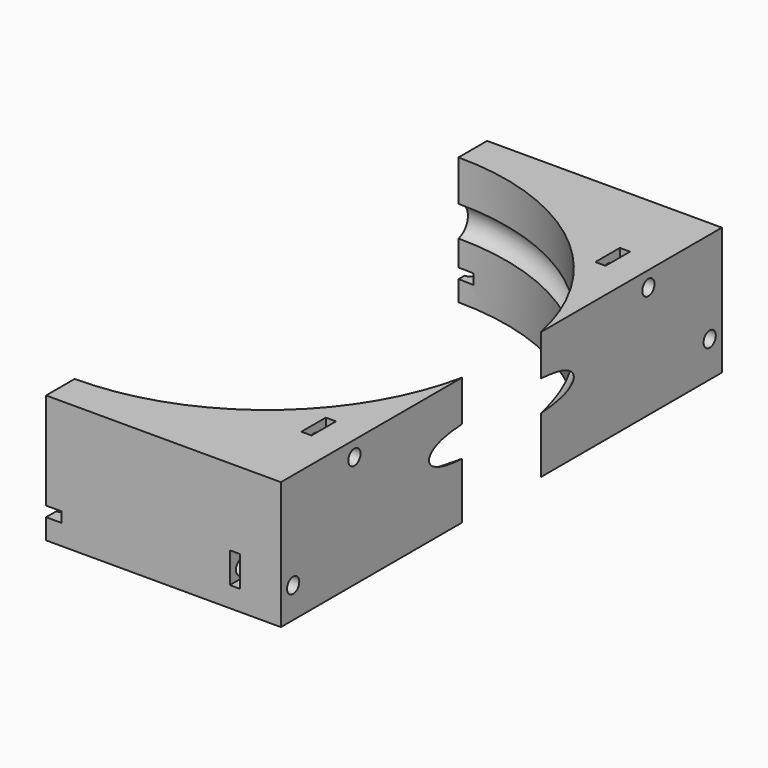
from build123d import *

# Parameters (mm, degrees)
BOX178_W                    = 2
BOX178_H                    = 6
BOX178_DEPTH                = 6
BOX179_W                    = 2
BOX179_H                    = 6
BOX179_DEPTH                = 6
BOX180_W                    = 2
BOX180_H                    = 6
BOX180_DEPTH                = 6
BOX177_W                    = 2
BOX177_H                    = 6
BOX177_DEPTH                = 6
CYLINDER392_R               = 1.5
CYLINDER392_DEPTH           = 100
CYLINDER393_R               = 1.5
CYLINDER393_DEPTH           = 100
CYLINDER394_R               = 1.5
CYLINDER394_DEPTH           = 100
CYLINDER391_R               = 1.5
CYLINDER391_DEPTH           = 100
BOX171_W                    = 8
BOX171_H                    = 6
BOX171_DEPTH                = 2
BOX171_PLACEMENT_ANGLE      = 45
BOX165_W                    = 8
BOX165_H                    = 6
BOX165_DEPTH                = 2
BOX166_W                    = 8
BOX166_H                    = 6
BOX166_DEPTH                = 2
BOX166_PLACEMENT_ANGLE      = 135
BOX168_W                    = 8
BOX168_H                    = 6
BOX168_DEPTH                = 2
BOX169_W                    = 8
BOX169_H                    = 6
BOX169_DEPTH                = 2
BOX169_PLACEMENT_ANGLE      = 225
BOX172_W                    = 8
BOX172_H                    = 6
BOX172_DEPTH                = 2
BOX170_W                    = 8
BOX170_H                    = 6
BOX170_DEPTH                = 2
BOX170_PLACEMENT_ANGLE      = 45
BOX167_W                    = 8
BOX167_H                    = 6
BOX167_DEPTH                = 2
CYLINDER375_R               = 1.5
CYLINDER375_DEPTH           = 50
CYLINDER375_PLACEMENT_ANGLE = 45
CYLINDER376_R               = 1.5
CYLINDER376_DEPTH           = 50
CYLINDER377_R               = 1.5
CYLINDER377_DEPTH           = 50
CYLINDER377_PLACEMENT_ANGLE = 135
CYLINDER378_R               = 1.5
CYLINDER378_DEPTH           = 50
CYLINDER379_R               = 1.5
CYLINDER379_DEPTH           = 50
CYLINDER379_PLACEMENT_ANGLE = 225
CYLINDER380_R               = 1.5
CYLINDER380_DEPTH           = 50
CYLINDER381_R               = 1.5
CYLINDER381_DEPTH           = 50
CYLINDER381_PLACEMENT_ANGLE = 45
CYLINDER374_R               = 1.5
CYLINDER374_DEPTH           = 50
TORUS005_R                  = 3.1
CYLINDER_R                  = 47
CYLINDER_DEPTH              = 25
BOX156_W                    = 46
BOX156_H                    = 108
BOX156_DEPTH                = 25


with BuildPart() as krychle178:
    # Box178 → Box178 (new body)
    with BuildSketch(Plane(origin=(36, -54, 24), x_dir=(1, 0, 0), z_dir=(0, 0, 1))):
        with Locations((1, 3)):
            Rectangle(BOX178_W, BOX178_H)
    extrude(amount=BOX178_DEPTH)


with BuildPart() as krychle179:
    # Box179 → Box179 (new body)
    with BuildSketch(Plane(origin=(38, 33, 39), x_dir=(1, 0, 0), z_dir=(0, 0, 1))):
        with Locations((1, 3)):
            Rectangle(BOX179_W, BOX179_H)
    extrude(amount=BOX179_DEPTH)


with BuildPart() as krychle180:
    # Box180 → Box180 (new body)
    with BuildSketch(Plane(origin=(38, -39, 39), x_dir=(1, 0, 0), z_dir=(0, 0, 1))):
        with Locations((1, 3)):
            Rectangle(BOX180_W, BOX180_H)
    extrude(amount=BOX180_DEPTH)


with BuildPart() as compound304:
    # Box177 → Box177 (new body)
    with BuildSketch(Plane(origin=(36, 48, 24), x_dir=(1, 0, 0), z_dir=(0, 0, 1))):
        with Locations((1, 3)):
            Rectangle(BOX177_W, BOX177_H)
    extrude(amount=BOX177_DEPTH)

    # Compound304: union Krychle178, Krychle179, Krychle180
    add(krychle178.part)
    add(krychle179.part)
    add(krychle180.part)


with BuildPart() as obj1:
    # Cylinder392 → Cylinder392 (new body)
    with BuildSketch(Plane(origin=(24, -51, 26), x_dir=(0, 0, -1), z_dir=(1, 0, 0))):
        Circle(CYLINDER392_R)
    extrude(amount=CYLINDER392_DEPTH)


with BuildPart() as obj2:
    # Cylinder393 → Cylinder393 (new body)
    with BuildSketch(Plane(origin=(34, 36, 42), x_dir=(0, 0, -1), z_dir=(1, 0, 0))):
        Circle(CYLINDER393_R)
    extrude(amount=CYLINDER393_DEPTH)


with BuildPart() as obj3:
    # Cylinder394 → Cylinder394 (new body)
    with BuildSketch(Plane(origin=(34, -36, 42), x_dir=(0, 0, -1), z_dir=(1, 0, 0))):
        Circle(CYLINDER394_R)
    extrude(amount=CYLINDER394_DEPTH)


with BuildPart() as compound301:
    # Cylinder391 → Cylinder391 (new body)
    with BuildSketch(Plane(origin=(24, 51, 27), x_dir=(0, 0, -1), z_dir=(1, 0, 0))):
        Circle(CYLINDER391_R)
    extrude(amount=CYLINDER391_DEPTH)

    # Compound301: union obj1, obj2, obj3
    add(obj1.part)
    add(obj2.part)
    add(obj3.part)


with BuildPart() as krychle171:
    # Box171 → Box171 (new body)
    with BuildSketch(Plane.XY):
        with Locations((4, 3)):
            Rectangle(BOX171_W, BOX171_H)
    extrude(amount=BOX171_DEPTH)


with BuildPart() as krychle171_1:
    # Box171 placement: moved
    add(krychle171.part.moved(Location((34.648232, 30.405592, 23))).rotate(Axis((34.648232, 30.405592, 23), (0, 0, 1)), BOX171_PLACEMENT_ANGLE))


with BuildPart() as krychle165:
    # Box165 → Box165 (new body)
    with BuildSketch(Plane(origin=(3, 46, 23), x_dir=(0, 1, 0), z_dir=(0, 0, 1))):
        with Locations((4, 3)):
            Rectangle(BOX165_W, BOX165_H)
    extrude(amount=BOX165_DEPTH)


with BuildPart() as krychle166:
    # Box166 → Box166 (new body)
    with BuildSketch(Plane.XY):
        with Locations((4, 3)):
            Rectangle(BOX166_W, BOX166_H)
    extrude(amount=BOX166_DEPTH)


with BuildPart() as krychle166_1:
    # Box166 placement: moved
    add(krychle166.part.moved(Location((-30.405592, 34.648232, 23))).rotate(Axis((-30.405592, 34.648232, 23), (0, 0, 1)), BOX166_PLACEMENT_ANGLE))


with BuildPart() as krychle168:
    # Box168 → Box168 (new body)
    with BuildSketch(Plane(origin=(-46, 3, 23), x_dir=(-1, 0, 0), z_dir=(0, 0, 1))):
        with Locations((4, 3)):
            Rectangle(BOX168_W, BOX168_H)
    extrude(amount=BOX168_DEPTH)


with BuildPart() as krychle169:
    # Box169 → Box169 (new body)
    with BuildSketch(Plane.XY):
        with Locations((4, 3)):
            Rectangle(BOX169_W, BOX169_H)
    extrude(amount=BOX169_DEPTH)


with BuildPart() as krychle169_1:
    # Box169 placement: moved
    add(krychle169.part.moved(Location((-34.648232, -30.405592, 23))).rotate(Axis((-34.648232, -30.405592, 23), (0, 0, 1)), BOX169_PLACEMENT_ANGLE))


with BuildPart() as krychle172:
    # Box172 → Box172 (new body)
    with BuildSketch(Plane(origin=(-3, -46, 23), x_dir=(0, -1, 0), z_dir=(0, 0, 1))):
        with Locations((4, 3)):
            Rectangle(BOX172_W, BOX172_H)
    extrude(amount=BOX172_DEPTH)


with BuildPart() as krychle170:
    # Box170 → Box170 (new body)
    with BuildSketch(Plane.XY):
        with Locations((4, 3)):
            Rectangle(BOX170_W, BOX170_H)
    extrude(amount=BOX170_DEPTH)


with BuildPart() as krychle170_1:
    # Box170 placement: moved
    add(krychle170.part.moved(Location((30.405592, -34.648232, 23))).rotate(Axis((30.405592, -34.648232, 23), (0, 0, -1)), BOX170_PLACEMENT_ANGLE))


with BuildPart() as compound300:
    # Box167 → Box167 (new body)
    with BuildSketch(Plane(origin=(46, -3, 23), x_dir=(1, 0, 0), z_dir=(0, 0, 1))):
        with Locations((4, 3)):
            Rectangle(BOX167_W, BOX167_H)
    extrude(amount=BOX167_DEPTH)

    # Compound300: union Krychle171, Krychle165, Krychle166, Krychle168, Krychle169, Krychle172, Krychle170
    add(krychle171_1.part)
    add(krychle165.part)
    add(krychle166_1.part)
    add(krychle168.part)
    add(krychle169_1.part)
    add(krychle172.part)
    add(krychle170_1.part)


with BuildPart() as compound300_1:
    # Compound300 placement: moved
    add(compound300.part.moved(Location((0, 0, 1))))


with BuildPart() as obj4:
    # Cylinder375 → Cylinder375 (new body)
    with BuildSketch(Plane.XY):
        Circle(CYLINDER375_R)
    extrude(amount=CYLINDER375_DEPTH)


with BuildPart() as obj4_1:
    # Cylinder375 placement: moved
    add(obj4.part.moved(Location((35.355339, 35.355339, -15))).rotate(Axis((35.355339, 35.355339, -15), (0, 0, 1)), CYLINDER375_PLACEMENT_ANGLE))


with BuildPart() as obj5:
    # Cylinder376 → Cylinder376 (new body)
    with BuildSketch(Plane(origin=(0, 50, -15), x_dir=(0, 1, 0), z_dir=(0, 0, 1))):
        Circle(CYLINDER376_R)
    extrude(amount=CYLINDER376_DEPTH)


with BuildPart() as obj6:
    # Cylinder377 → Cylinder377 (new body)
    with BuildSketch(Plane.XY):
        Circle(CYLINDER377_R)
    extrude(amount=CYLINDER377_DEPTH)


with BuildPart() as obj6_1:
    # Cylinder377 placement: moved
    add(obj6.part.moved(Location((-35.355339, 35.355339, -15))).rotate(Axis((-35.355339, 35.355339, -15), (0, 0, 1)), CYLINDER377_PLACEMENT_ANGLE))


with BuildPart() as obj7:
    # Cylinder378 → Cylinder378 (new body)
    with BuildSketch(Plane(origin=(-50, 0, -15), x_dir=(-1, 0, 0), z_dir=(0, 0, 1))):
        Circle(CYLINDER378_R)
    extrude(amount=CYLINDER378_DEPTH)


with BuildPart() as obj8:
    # Cylinder379 → Cylinder379 (new body)
    with BuildSketch(Plane.XY):
        Circle(CYLINDER379_R)
    extrude(amount=CYLINDER379_DEPTH)


with BuildPart() as obj8_1:
    # Cylinder379 placement: moved
    add(obj8.part.moved(Location((-35.355339, -35.355339, -15))).rotate(Axis((-35.355339, -35.355339, -15), (0, 0, 1)), CYLINDER379_PLACEMENT_ANGLE))


with BuildPart() as obj9:
    # Cylinder380 → Cylinder380 (new body)
    with BuildSketch(Plane(origin=(0, -50, -15), x_dir=(0, -1, 0), z_dir=(0, 0, 1))):
        Circle(CYLINDER380_R)
    extrude(amount=CYLINDER380_DEPTH)


with BuildPart() as obj10:
    # Cylinder381 → Cylinder381 (new body)
    with BuildSketch(Plane.XY):
        Circle(CYLINDER381_R)
    extrude(amount=CYLINDER381_DEPTH)


with BuildPart() as obj10_1:
    # Cylinder381 placement: moved
    add(obj10.part.moved(Location((35.355339, -35.355339, -15))).rotate(Axis((35.355339, -35.355339, -15), (0, 0, -1)), CYLINDER381_PLACEMENT_ANGLE))


with BuildPart() as compound298:
    # Cylinder374 → Cylinder374 (new body)
    with BuildSketch(Plane(origin=(50, 0, -15), x_dir=(1, 0, 0), z_dir=(0, 0, 1))):
        Circle(CYLINDER374_R)
    extrude(amount=CYLINDER374_DEPTH)

    # Compound298: union obj4, obj5, obj6, obj7, obj8, obj9, obj10
    add(obj4_1.part)
    add(obj5.part)
    add(obj6_1.part)
    add(obj7.part)
    add(obj8_1.part)
    add(obj9.part)
    add(obj10_1.part)


with BuildPart() as compound298_1:
    # Compound298 placement: moved
    add(compound298.part.moved(Location((0, 0, -5))))


with BuildPart() as obj11:
    # Torus005 → Torus005 (revolve)
    with BuildSketch(Plane(origin=(0, 0, 34), x_dir=(1, 0, 0), z_dir=(0, -1, 0))):
        with Locations((46.2, 0)):
            Circle(TORUS005_R)
    revolve(axis=Axis((0, 0, 34), (0, 0, 1)))


with BuildPart() as obj12:
    # Cylinder → Cylinder (new body)
    with BuildSketch(Plane.XY.offset(20)):
        Circle(CYLINDER_R)
    extrude(amount=CYLINDER_DEPTH)


with BuildPart() as cut158:
    # Box156 → Box156 (new body)
    with BuildSketch(Plane(origin=(0, -54, 20), x_dir=(1, 0, 0), z_dir=(0, 0, 1))):
        with Locations((23, 54)):
            Rectangle(BOX156_W, BOX156_H)
    extrude(amount=BOX156_DEPTH)

    # Cut153: cut obj12
    add(obj12.part, mode=Mode.SUBTRACT)

    # Cut154: cut obj11
    add(obj11.part, mode=Mode.SUBTRACT)

    # Cut155: cut Compound298
    add(compound298_1.part, mode=Mode.SUBTRACT)

    # Cut156: cut Compound300
    add(compound300_1.part, mode=Mode.SUBTRACT)

    # Cut157: cut Compound301
    add(compound301.part, mode=Mode.SUBTRACT)

    # Cut158: cut Compound304
    add(compound304.part, mode=Mode.SUBTRACT)


solid = cut158.part
